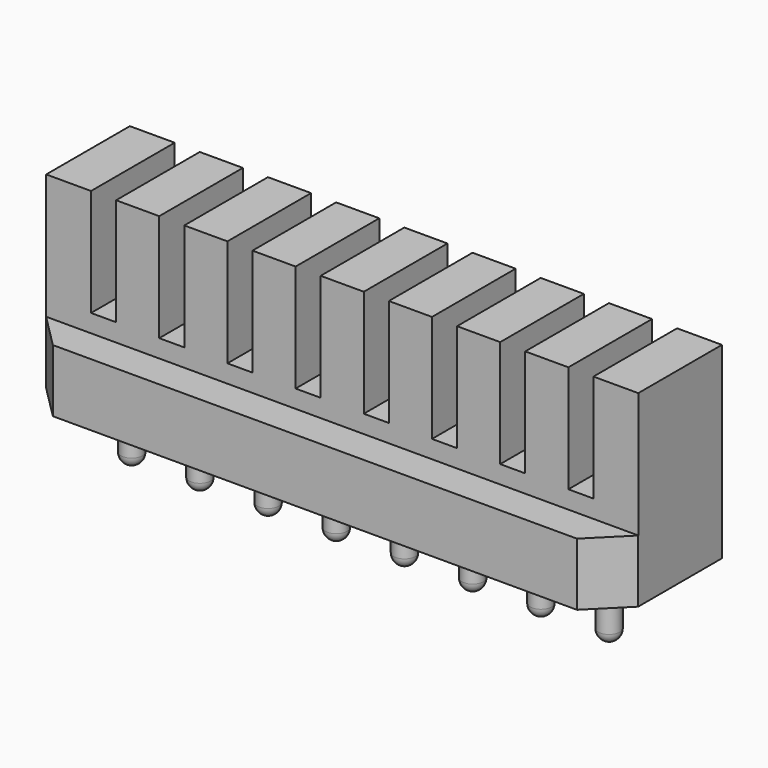
from build123d import *

# Parameters (mm, degrees)
F0_W     = 33.08
F0_H     = 7.75
F1_DEPTH = 3.5
F2_W     = 33.08
F2_H     = 5.842
F3_DEPTH = 7
F4_SIZE  = 1.9
F5_W     = 1.4
F5_H     = 5.842
F6_DEPTH = 6
F7_R     = 0.6
F8_DEPTH = 3.5
F9_R     = 0.6


with BuildPart() as f1:
    # F0 (on Top) → F1 (new body)
    with BuildSketch(Plane.XY):
        Rectangle(F0_W, F0_H)
    extrude(amount=F1_DEPTH)

    # F2 (on face) → F3 (join)
    with BuildSketch(Plane.XY.offset(3.5)):
        with Locations((0, 0.954)):
            Rectangle(F2_W, F2_H)
    extrude(amount=F3_DEPTH)

    # F4
    f4_edges = [f1.edges().sort_by_distance(p)[0] for p in [
        (16.54, -3.875, 1.75),
        (-16.54, -3.875, 1.75),
    ]]
    chamfer(f4_edges, length=F4_SIZE)

    # F5 (on face) → F6 (cut)
    with BuildSketch(Plane.XY.offset(10.5)):
        with Locations((-13.335, 0.954)):
            Rectangle(F5_W, F5_H)
        with Locations((-9.525, 0.954)):
            Rectangle(F5_W, F5_H)
        with Locations((-5.715, 0.954)):
            Rectangle(F5_W, F5_H)
        with Locations((-1.905, 0.954)):
            Rectangle(F5_W, F5_H)
        with Locations((1.905, 0.954)):
            Rectangle(F5_W, F5_H)
        with Locations((5.715, 0.954)):
            Rectangle(F5_W, F5_H)
        with Locations((9.525, 0.954)):
            Rectangle(F5_W, F5_H)
        with Locations((13.335, 0.954)):
            Rectangle(F5_W, F5_H)
    extrude(amount=-F6_DEPTH, mode=Mode.SUBTRACT)


with BuildPart() as f8:
    # F7 (on face) → F8 (new body)
    with BuildSketch(Plane(origin=(0, 0, 0), x_dir=(1, 0, 0), z_dir=(0, 0, -1))):
        with Locations((-13.335, 0)):
            Circle(F7_R)
        with Locations((-9.525, 0)):
            Circle(F7_R)
        with Locations((-5.715, 0)):
            Circle(F7_R)
        with Locations((-1.905, 0)):
            Circle(F7_R)
        with Locations((1.905, 0)):
            Circle(F7_R)
        with Locations((5.715, 0)):
            Circle(F7_R)
        with Locations((9.525, 0)):
            Circle(F7_R)
        with Locations((13.335, 0)):
            Circle(F7_R)
    extrude(amount=F8_DEPTH)

    # F9
    f9_edges = [f8.edges().sort_by_distance(p)[0] for p in [
        (-13.935, 0, -3.5),
        (-10.125, 0, -3.5),
        (-6.315, 0, -3.5),
        (-2.505, 0, -3.5),
        (1.305, 0, -3.5),
        (5.115, 0, -3.5),
        (8.925, 0, -3.5),
        (12.735, 0, -3.5),
    ]]
    fillet(f9_edges, radius=F9_R)


solid = Compound([f1.part, f8.part])
